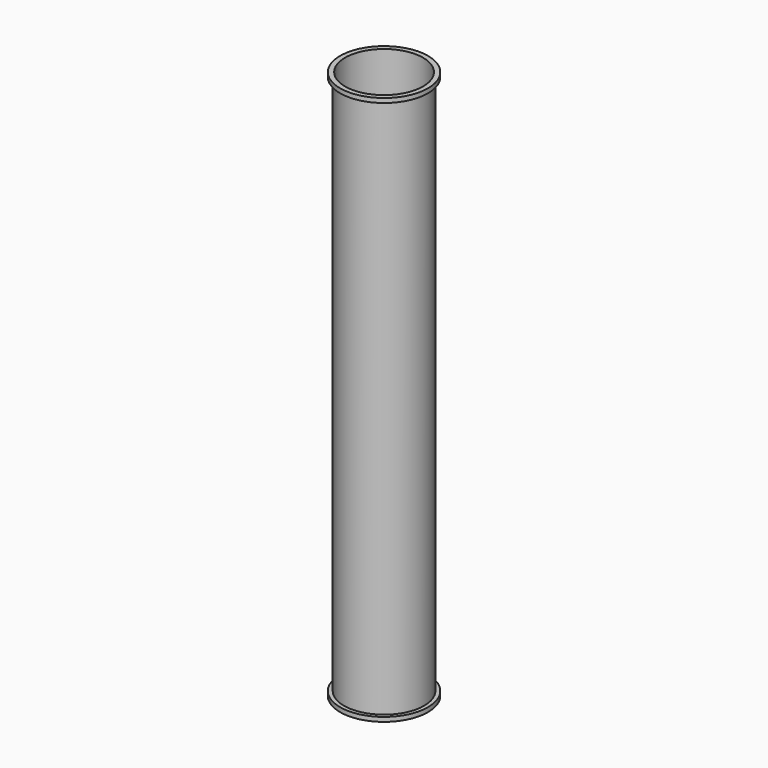
from build123d import *


with BuildPart() as f2:
    # F0 (on Front) → F2 (revolve)
    with BuildSketch(Plane.XZ):
        Polygon((106.5, 1500), (106.5, 0), (120, 0), (120, 12), (109.5, 12), (109.5, 1488), (120, 1488), (120, 1500), align=None)
    revolve(axis=Axis((0, 0, 45.711137), (0, 0, 1)))


with BuildPart() as f4:
    # F3 (on Front) → F4 (revolve)
    with BuildSketch(Plane.XZ):
        Polygon((76.5, 100), (106.5, 0), (120, 0), (120, 12), (106.032092, 12), (83.232092, 88), (90, 88), (90, 100), align=None)
    revolve(axis=Axis((0, 0, 45.711137), (0, 0, 1)))


solid = Compound([f2.part, f4.part])
